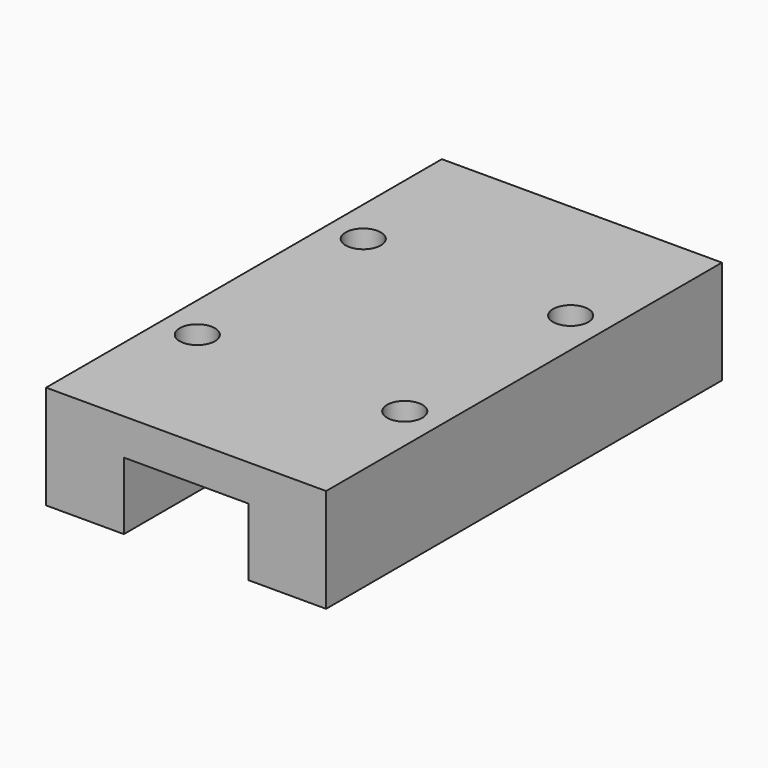
from build123d import *

# Parameters (mm, degrees)
F1_DEPTH = 23.85
F3_D     = 3.4
F3_DEPTH = 3.5
F3_TIP   = 1.0214630523


with BuildPart() as f1:
    # F0 (on Front) → F1 (new body, symmetric)
    with BuildSketch(Plane.XZ):
        Polygon((6, -5), (13.5, -5), (13.5, 5), (-13.5, 5), (-13.5, -5), (-6, -5), (-6, 1.5), (6, 1.5), align=None)
    extrude(amount=F1_DEPTH, both=True)

    # F3
    with Locations(Plane.XY.offset(5)):
        with Locations((10, 10), (10, -10), (-10, -10), (-10, 10)):
            Hole(F3_D / 2, depth=F3_DEPTH)
            with Locations((0, 0, -(F3_DEPTH + F3_TIP / 2))):  # 118° drill point
                Cone(0, F3_D / 2, F3_TIP, mode=Mode.SUBTRACT)


solid = f1.part
